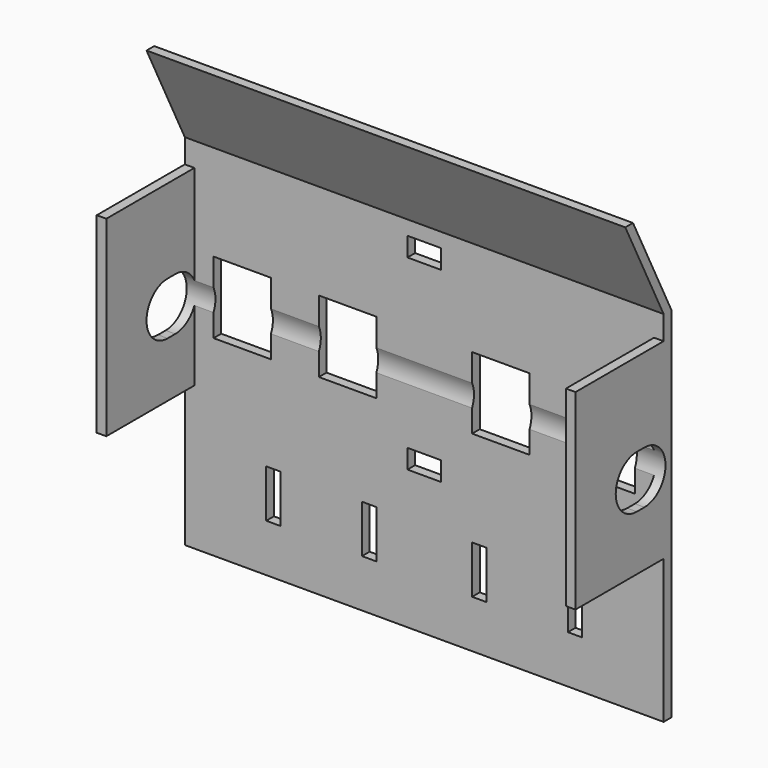
from build123d import *

# Parameters (mm, degrees)
F0_W     = 100
F0_H     = 75
F0_W_2   = 3
F0_H_2   = 10
F0_W_3   = 7
F0_H_3   = 4
F0_W_4   = 12
F0_H_4   = 15
F1_DEPTH = 2
F2_W     = 2
F2_H     = 40
F3_DEPTH = 25
F5_DEPTH = 100
F7_DEPTH = 100


with BuildPart() as f1:
    # F0 (on Front) → F1 (new body)
    with BuildSketch(Plane.XZ):
        with Locations((0, 5.5)):
            Rectangle(F0_W, F0_H)
        with Locations((-31.5, -17)):
            Rectangle(F0_W_2, F0_H_2, mode=Mode.SUBTRACT)
        with Locations((-11.5, -17)):
            Rectangle(F0_W_2, F0_H_2, mode=Mode.SUBTRACT)
        with Locations((11.5, -17)):
            Rectangle(F0_W_2, F0_H_2, mode=Mode.SUBTRACT)
        with Locations((31.5, -17)):
            Rectangle(F0_W_2, F0_H_2, mode=Mode.SUBTRACT)
        with Locations((0, -1)):
            Rectangle(F0_W_3, F0_H_3, mode=Mode.SUBTRACT)
        with Locations((-38, 15.5)):
            Rectangle(F0_W_4, F0_H_4, mode=Mode.SUBTRACT)
        with Locations((-16, 15.5)):
            Rectangle(F0_W_4, F0_H_4, mode=Mode.SUBTRACT)
        with Locations((16, 15.5)):
            Rectangle(F0_W_4, F0_H_4, mode=Mode.SUBTRACT)
        with Locations((38, 15.5)):
            Rectangle(F0_W_4, F0_H_4, mode=Mode.SUBTRACT)
        with Locations((0, 38)):
            Rectangle(F0_W_3, F0_H_3, mode=Mode.SUBTRACT)
    extrude(amount=F1_DEPTH)

    # F2 (on face) → F3 (join)
    with BuildSketch(Plane(origin=(0, 0, 0), x_dir=(-1, 0, 0), z_dir=(0, 1, 0))):
        with Locations((-49, 18)):
            Rectangle(F2_W, F2_H)
        with Locations((49, 18)):
            Rectangle(F2_W, F2_H)
    extrude(amount=-F3_DEPTH)

    # F4 (on face) → F5 (join)
    with BuildSketch(Plane(origin=(-50, 0, 0), x_dir=(0, -1, 0), z_dir=(-1, 0, 0))):
        Polygon((0, 43), (2, 43), (12, 63), (10, 63), align=None)
    extrude(amount=-F5_DEPTH)

    # F6 (on face) → F7 (cut)
    with BuildSketch(Plane.YZ.offset(50)):
        with BuildLine():
            Line((-7, 20.5), (-9, 20.5))
            ThreePointArc((-9, 20.5), (-14.5, 15), (-9, 9.5))
            Line((-9, 9.5), (-7, 9.5))
            ThreePointArc((-7, 9.5), (-1.5, 15), (-7, 20.5))
        make_face()
    extrude(amount=-F7_DEPTH, mode=Mode.SUBTRACT)


solid = f1.part
